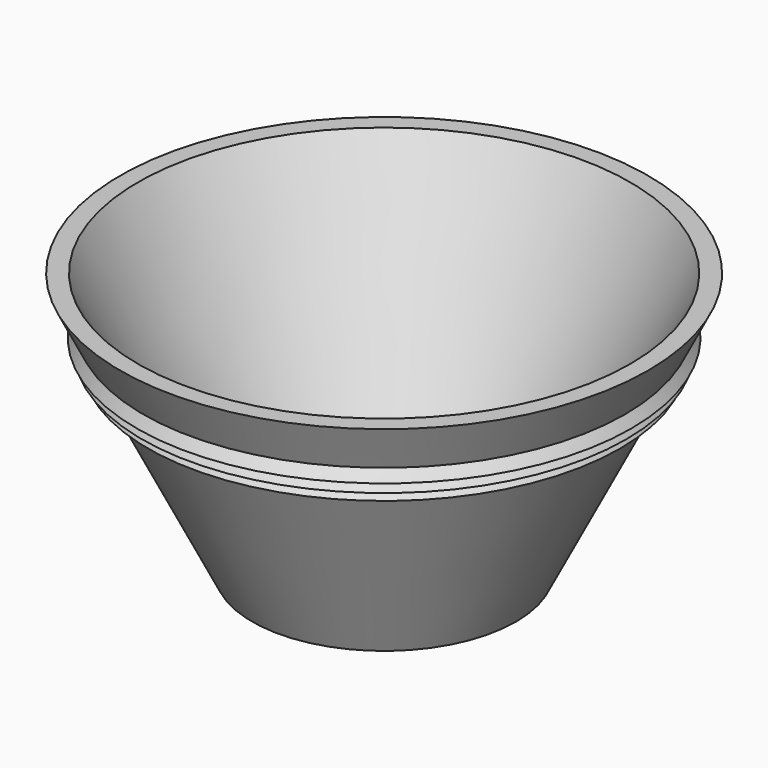
from build123d import *


with BuildPart() as f1:
    # F0 (on Front) → F1 (revolve)
    with BuildSketch(Plane.XZ):
        Polygon((0, 3.0734), (0, 0), (25.4, 0), (43.317222, 35.834445), (44.290237, 37.780475), (45.357776, 39.915551), (46.37803, 41.95606), (50.8, 50.8), (47.363834, 50.8), (23.500534, 3.0734), align=None)
        Polygon((46.37803, 41.95606), (45.357776, 39.915551), (47.556118, 39.915551), align=None)
        Polygon((45.357776, 39.915551), (44.290237, 37.780475), (46.590462, 37.780475), align=None)
        Polygon((44.290237, 37.780475), (43.317222, 35.834445), (45.413778, 35.834445), align=None)
    revolve(axis=Axis((0, 0, 25.4), (0, 0, 1)))


solid = f1.part
